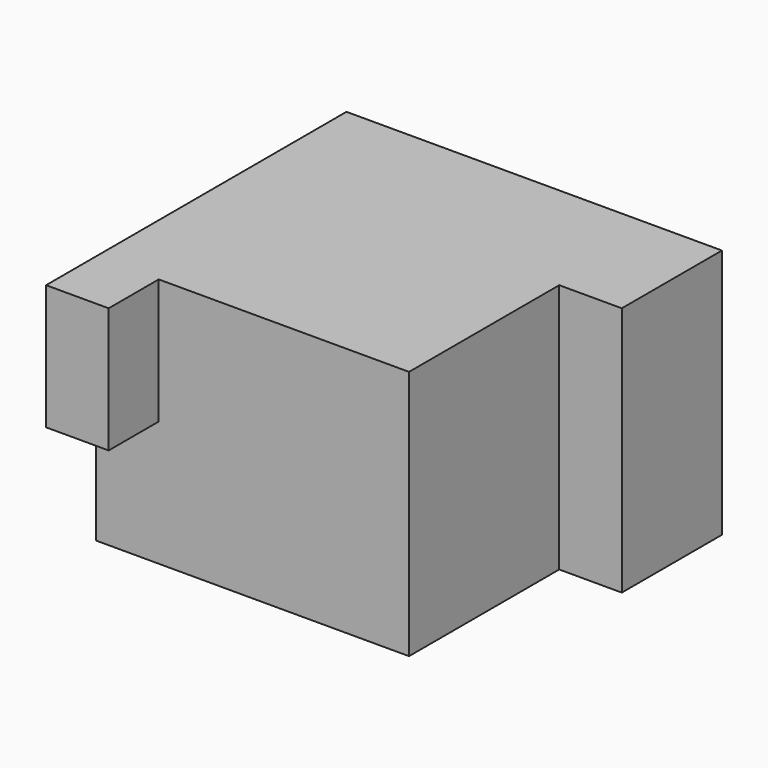
from build123d import *

# Parameters (mm, degrees)
F1_DEPTH = 40
F2_W     = 10
F2_H     = 20
F3_DEPTH = 10


with BuildPart() as f1:
    # F0 (on Top) → F1 (new body)
    with BuildSketch(Plane.XY):
        Polygon((30, 10), (30, 30), (-30, 30), (-30, -20), (20, -20), (20, 10), align=None)
    extrude(amount=F1_DEPTH)

    # F2 (on face) → F3 (join)
    with BuildSketch(Plane.XZ.offset(20)):
        with Locations((-25, 30)):
            Rectangle(F2_W, F2_H)
    extrude(amount=F3_DEPTH)


solid = f1.part
